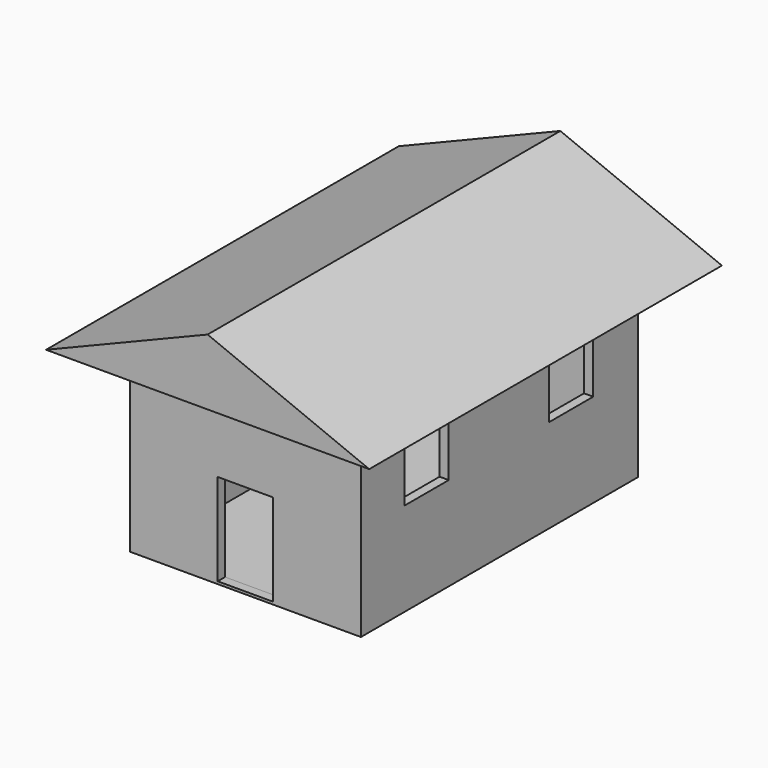
from build123d import *

# Parameters (mm, degrees)
F0_W     = 3190.24
F0_H     = 4785.36
F0_W_2   = 2936.24
F0_H_2   = 4531.36
F1_DEPTH = 2540
F2_DEPTH = 25.4
F4_DEPTH = 3048
F5_W     = 762
F5_H     = 1270
F6_DEPTH = 12700
F7_W     = 762
F7_H     = 762
F8_DEPTH = 3810


with BuildPart() as f1:
    # F0 (on Top) → F1 (new body)
    with BuildSketch(Plane.XY):
        Rectangle(F0_W, F0_H)
        Rectangle(F0_W_2, F0_H_2, mode=Mode.SUBTRACT)
    extrude(amount=F1_DEPTH)

    # F0 (on Top) → F2 (join)
    with BuildSketch(Plane.XY):
        Rectangle(F0_W_2, F0_H_2)
    extrude(amount=F2_DEPTH)

    # F3 (on Front) → F4 (join, symmetric)
    with BuildSketch(Plane.XZ):
        Polygon((0, 3430.088758), (-2234.00463, 2518.062272), (2234.00463, 2518.062272), align=None)
    extrude(amount=F4_DEPTH, both=True)

    # F5 (on Front) → F6 (cut)
    with BuildSketch(Plane.XZ):
        with Locations((-4.528345, 669.978624)):
            Rectangle(F5_W, F5_H)
    extrude(amount=F6_DEPTH, mode=Mode.SUBTRACT)

    # F7 (on Right) → F8 (cut, symmetric)
    with BuildSketch(Plane.YZ):
        with Locations((1240.899438, 1674.648087)):
            Rectangle(F7_W, F7_H)
        with Locations((-1255.954975, 1674.648087)):
            Rectangle(F7_W, F7_H)
    extrude(amount=F8_DEPTH, both=True, mode=Mode.SUBTRACT)


solid = f1.part
